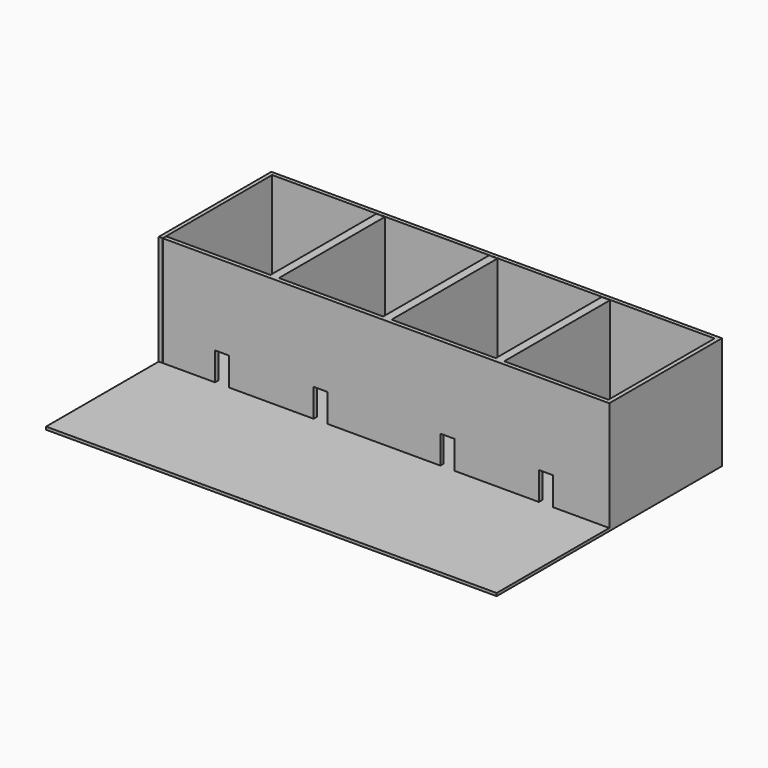
from build123d import *

# Parameters (mm, degrees)
F0_W     = 203.2
F0_H     = 127
F1_DEPTH = 1.27
F2_W     = 1.7448549651
F2_H     = 61.595
F2_W_2   = 46.99
F2_H_2   = 1.7448549651
F2_W_3   = 1.905
F2_W_4   = 47.1501450349
F2_H_3   = 1.905
F3_DEPTH = 50.8
F4_W     = 6.35
F4_H     = 12.7
F5_DEPTH = 25.4


with BuildPart() as f1:
    # F0 (on Top) → F1 (new body)
    with BuildSketch(Plane.XY):
        with Locations((101.6, -63.5)):
            Rectangle(F0_W, F0_H)
    extrude(amount=F1_DEPTH)

    # F2 (on Top) → F3 (join)
    with BuildSketch(Plane.XY):
        Polygon((50.8, -1.905), (48.895, -1.905), (48.895, -61.595), (1.905, -61.595), (1.905, -63.5), (50.8, -63.5), align=None)
        Polygon((1.7448549651, -1.7448549651), (1.7448549651, 0), (0, 0), (0, -61.595), (1.7448549651, -61.595), align=None)
        Polygon((52.705, -1.905), (50.8, -1.905), (50.8, -63.5), (101.6, -63.5), (101.6, -1.905), (99.695, -1.905), (99.695, -61.595), (52.705, -61.595), align=None)
        Polygon((101.6, -1.905), (101.6, -63.5), (152.4, -63.5), (152.4, -1.905), (150.495, -1.905), (150.495, -61.595), (103.505, -61.595), (103.505, -1.905), align=None)
        Polygon((152.4, -1.905), (152.4, -63.5), (201.4551450349, -63.5), (201.4551450349, -1.905), (201.295, -1.905), (201.295, -61.595), (154.305, -61.595), (154.305, -1.905), align=None)
        with Locations((202.3275725174, -32.7025)):
            Rectangle(F2_W, F2_H)
        with Locations((177.8, -0.8724274826)):
            Rectangle(F2_W_2, F2_H_2)
        Polygon((201.4551450349, -1.7448549651), (201.4551450349, -1.905), (203.2, -1.905), (203.2, 0), (201.295, 0), (201.295, -1.7448549651), align=None)
        with Locations((127, -0.8724274826)):
            Rectangle(F2_W_2, F2_H_2)
        with Locations((151.4475, -0.8724274826)):
            Rectangle(F2_W_3, F2_H_2)
        with Locations((153.3525, -0.8724274826)):
            Rectangle(F2_W_3, F2_H_2)
        with Locations((76.2, -0.8724274826)):
            Rectangle(F2_W_2, F2_H_2)
        with Locations((100.6475, -0.8724274826)):
            Rectangle(F2_W_3, F2_H_2)
        with Locations((102.5525, -0.8724274826)):
            Rectangle(F2_W_3, F2_H_2)
        with Locations((49.8475, -0.8724274826)):
            Rectangle(F2_W_3, F2_H_2)
        with Locations((51.7525, -0.8724274826)):
            Rectangle(F2_W_3, F2_H_2)
        with Locations((25.3199274826, -0.8724274826)):
            Rectangle(F2_W_4, F2_H_2)
        with Locations((0.8724274826, -62.5475)):
            Rectangle(F2_W, F2_H_3)
    extrude(amount=F3_DEPTH)

    # F4 (on face) → F5 (cut)
    with BuildSketch(Plane.XZ.offset(63.5)):
        with Locations((28.575, 7.62)):
            Rectangle(F4_W, F4_H)
        with Locations((73.025, 7.62)):
            Rectangle(F4_W, F4_H)
        with Locations((130.175, 7.62)):
            Rectangle(F4_W, F4_H)
        with Locations((174.625, 7.62)):
            Rectangle(F4_W, F4_H)
    extrude(amount=-F5_DEPTH, mode=Mode.SUBTRACT)


solid = f1.part
